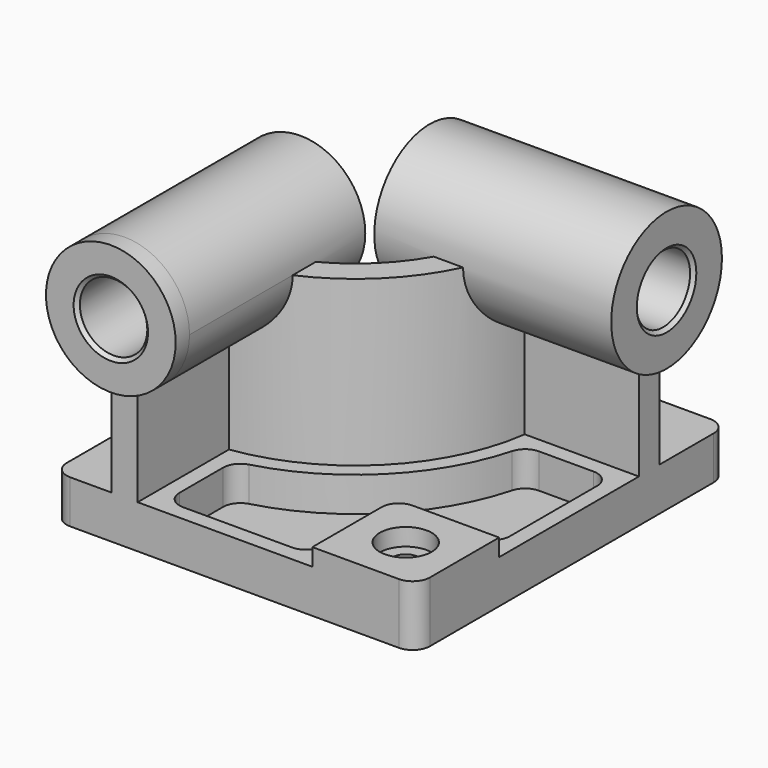
from build123d import *

# Parameters (mm, degrees)
F0_W            = 210
F0_H            = 225
F1_DEPTH        = 25
F3_DEPTH        = 95
F4_R            = 37.5
F5_DEPTH        = 10
F5_DEPTH_BACK   = 127
F6_R            = 40
F7_DEPTH        = 10
F7_DEPTH_BACK   = 127
F8_W            = 60
F8_H            = 60
F9_DEPTH        = 10
F10_R           = 10
F12_DEPTH       = 20
F14_D           = 15
F14_CBORE_D     = 30
F14_CBORE_DEPTH = 10
F15_R           = 10
F16_R           = 19.5
F17_DEPTH       = 235.001
F18_R           = 19.5
F19_DEPTH       = 220.001
F20_SIZE        = 2
F21_R           = 10


with BuildPart() as f1:
    # F0 (on Top) → F1 (new body)
    with BuildSketch(Plane.XY):
        Rectangle(F0_W, F0_H)
    extrude(amount=F1_DEPTH)

    # F2 (on face) → F3 (join)
    with BuildSketch(Plane.XY.offset(25)):
        with BuildLine():
            Line((-71, -32.5), (-71, -112.5))
            Line((-71, -112.5), (-56, -112.5))
            Line((-56, -112.5), (-56, -46.481817))
            ThreePointArc((-56, -46.481817), (7.488853, -14.988853), (38.981817, 48.5))
            Line((38.981817, 48.5), (105, 48.5))
            Line((105, 48.5), (105, 63.5))
            Line((105, 63.5), (25, 63.5))
            ThreePointArc((25, 63.5), (-3.117749, -4.382251), (-71, -32.5))
        make_face()
    extrude(amount=F3_DEPTH)

    # F4 (on face) → F5 (join, two sides)
    with BuildSketch(Plane.XZ.offset(112.5)) as f5_sk:
        with Locations((-63.5, 120)):
            Circle(F4_R)
    extrude(amount=F5_DEPTH)
    extrude(f5_sk.sketch, amount=-F5_DEPTH_BACK)

    # F6 (on face) → F7 (join, two sides)
    with BuildSketch(Plane.YZ.offset(105)) as f7_sk:
        with Locations((56, 120)):
            Circle(F6_R)
    extrude(amount=F7_DEPTH)
    extrude(f7_sk.sketch, amount=-F7_DEPTH_BACK)

    # F8 (on face) → F9 (join)
    with BuildSketch(Plane.XY.offset(25)):
        with Locations((75, -82.5)):
            Rectangle(F8_W, F8_H)
    extrude(amount=F9_DEPTH)

    # F10
    f10_edges = [f1.edges().sort_by_distance(p)[0] for p in [
        (45, -52.5, 30),
    ]]
    fillet(f10_edges, radius=F10_R)

    # F11 (on face) → F12 (cut)
    with BuildSketch(Plane.XY.offset(25)):
        with BuildLine():
            ThreePointArc((46.575508, 39.5), (13.852814, -21.352814), (-47, -54.075508))
            Line((-47, -54.075508), (-47, -103.5))
            Line((-47, -103.5), (36, -103.5))
            Line((36, -103.5), (36, -62.5))
            ThreePointArc((36, -62.5), (41.564971, -49.064971), (55, -43.5))
            Line((55, -43.5), (96, -43.5))
            Line((96, -43.5), (96, 39.5))
            Line((96, 39.5), (46.575508, 39.5))
        make_face()
    extrude(amount=-F12_DEPTH, mode=Mode.SUBTRACT)

    # F14 (through all)
    with Locations(Plane.XY.offset(35)):
        with Locations((75, -82.5)):
            CounterBoreHole(F14_D / 2, F14_CBORE_D / 2, F14_CBORE_DEPTH)

    # F15
    f15_edges = [f1.edges().sort_by_distance(p)[0] for p in [
        (46.575508, 39.5, 15),
        (-47, -54.075508, 15),
        (96, 39.5, 15),
        (96, -43.5, 15),
        (36, -103.5, 15),
        (-47, -103.5, 15),
    ]]
    fillet(f15_edges, radius=F15_R)

    # F16 (on face) → F17 (cut, through all)
    with BuildSketch(Plane.XZ.offset(122.5)):
        with Locations((-63.5, 120)):
            Circle(F16_R)
    extrude(amount=-F17_DEPTH, mode=Mode.SUBTRACT)

    # F18 (on face) → F19 (cut, through all)
    with BuildSketch(Plane.YZ.offset(115)):
        with Locations((56, 120)):
            Circle(F18_R)
    extrude(amount=-F19_DEPTH, mode=Mode.SUBTRACT)

    # F20
    f20_edges = [f1.edges().sort_by_distance(p)[0] for p in [
        (-83, -122.5, 120),
        (115, 36.5, 120),
        (-22, 36.5, 120),
        (-83, 14.5, 120),
    ]]
    chamfer(f20_edges, length=F20_SIZE)

    # F21
    f21_edges = [f1.edges().sort_by_distance(p)[0] for p in [
        (-105, -112.5, 12.5),
        (105, -112.5, 17.5),
        (105, 112.5, 12.5),
        (-105, 112.5, 12.5),
    ]]
    fillet(f21_edges, radius=F21_R)


solid = f1.part
